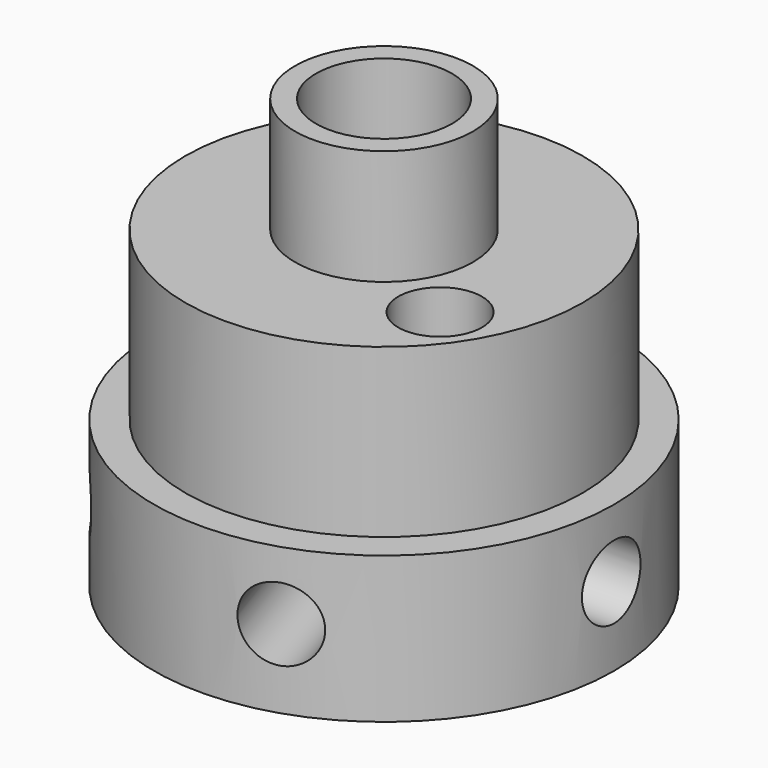
from build123d import *

# Parameters (mm, degrees)
F0_R      = 11
F1_DEPTH  = 7
F2_R      = 9.5
F3_DEPTH  = 8
F4_R      = 4.25
F5_DEPTH  = 5.5
F6_R      = 3.25
F7_DEPTH  = 20.501
F10_R     = 1.75
F19_DEPTH = 6
F12_R     = 1.75
F20_DEPTH = 6
F14_R     = 1.75
F21_DEPTH = 6
F16_R     = 1.75
F22_DEPTH = 6
F18_R     = 1.75
F23_DEPTH = 6
F24_R     = 2
F25_DEPTH = 25


with BuildPart() as f1:
    # F0 (on Top) → F1 (new body)
    with BuildSketch(Plane.XY):
        Circle(F0_R)
    extrude(amount=F1_DEPTH)

    # F2 (on face) → F3 (join)
    with BuildSketch(Plane.XY.offset(7)):
        Circle(F2_R)
    extrude(amount=F3_DEPTH)

    # F4 (on face) → F5 (join)
    with BuildSketch(Plane.XY.offset(15)):
        Circle(F4_R)
    extrude(amount=F5_DEPTH)

    # F6 (on face) → F7 (cut, through all)
    with BuildSketch(Plane.XY.offset(20.5)):
        Circle(F6_R)
    extrude(amount=-F7_DEPTH, mode=Mode.SUBTRACT)

    # F10 (on line) → F19 (cut)
    with BuildSketch(Plane.YZ.offset(11)):
        with Locations((0, 3.75)):
            Circle(F10_R)
    extrude(amount=-F19_DEPTH, mode=Mode.SUBTRACT)

    # F12 (on line) → F20 (cut)
    with BuildSketch(Plane(origin=(3.3991869381, -10.4616216792, 0), x_dir=(-0.9510565163, -0.3090169944, 0), z_dir=(-0.3090169944, 0.9510565163, 0))):
        with Locations((0, 3.75)):
            Circle(F12_R)
    extrude(amount=F20_DEPTH, mode=Mode.SUBTRACT)

    # F14 (on face) → F21 (cut)
    with BuildSketch(Plane(origin=(-8.8991869381, -6.4656377752, 0), x_dir=(-0.5877852523, 0.8090169944, 0), z_dir=(0.8090169944, 0.5877852523, 0))):
        with Locations((0, 3.75)):
            Circle(F14_R)
    extrude(amount=F21_DEPTH, mode=Mode.SUBTRACT)

    # F16 (on face) → F22 (cut)
    with BuildSketch(Plane(origin=(-8.8991869381, 6.4656377752, 0), x_dir=(0.5877852523, 0.8090169944, 0), z_dir=(0.8090169944, -0.5877852523, 0))):
        with Locations((0, 3.75)):
            Circle(F16_R)
    extrude(amount=F22_DEPTH, mode=Mode.SUBTRACT)

    # F18 (on line) → F23 (cut)
    with BuildSketch(Plane(origin=(3.3991869381, 10.4616216792, 0), x_dir=(-0.9510565163, 0.3090169944, 0), z_dir=(0.3090169944, 0.9510565163, 0))):
        with Locations((0, 3.75)):
            Circle(F18_R)
    extrude(amount=-F23_DEPTH, mode=Mode.SUBTRACT)

    # F24 (on face) → F25 (cut)
    with BuildSketch(Plane(origin=(0, 0, 0), x_dir=(1, 0, 0), z_dir=(0, 0, -1))):
        with Locations((5.8068181818, 3.9090743921)):
            Circle(F24_R)
    extrude(amount=-F25_DEPTH, mode=Mode.SUBTRACT)


solid = f1.part
